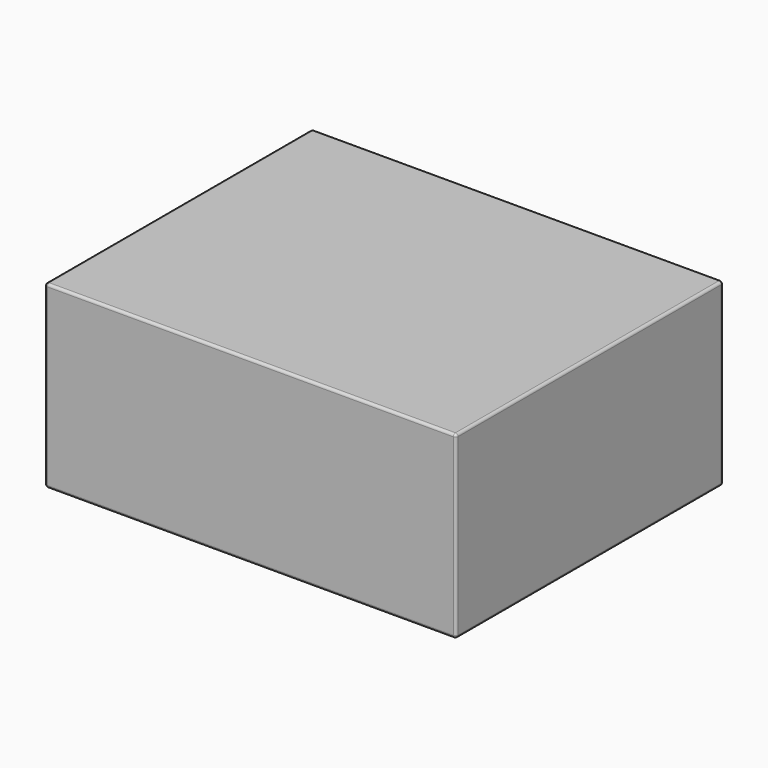
from build123d import *

# Parameters (mm, degrees)
SKETCH_W  = 160
SKETCH_H  = 130
PAD_DEPTH = 70
FILLET_R  = 1


with BuildPart() as part:
    # Sketch → Pad (new body)
    with BuildSketch(Plane.XY):
        with Locations((80, -65)):
            Rectangle(SKETCH_W, SKETCH_H)
    extrude(amount=PAD_DEPTH)

    # Fillet
    fillet_edges = [part.edges().sort_by_distance(p)[0] for p in [
        (80, 0, 70),
        (160, -65, 70),
        (80, -130, 70),
        (0, -65, 70),
        (160, -130, 35),
        (0, -130, 35),
        (80, -130, 0),
        (160, 0, 35),
        (160, -65, 0),
        (80, 0, 0),
        (0, -65, 0),
        (0, 0, 35),
    ]]
    fillet(fillet_edges, radius=FILLET_R)


solid = part.part
